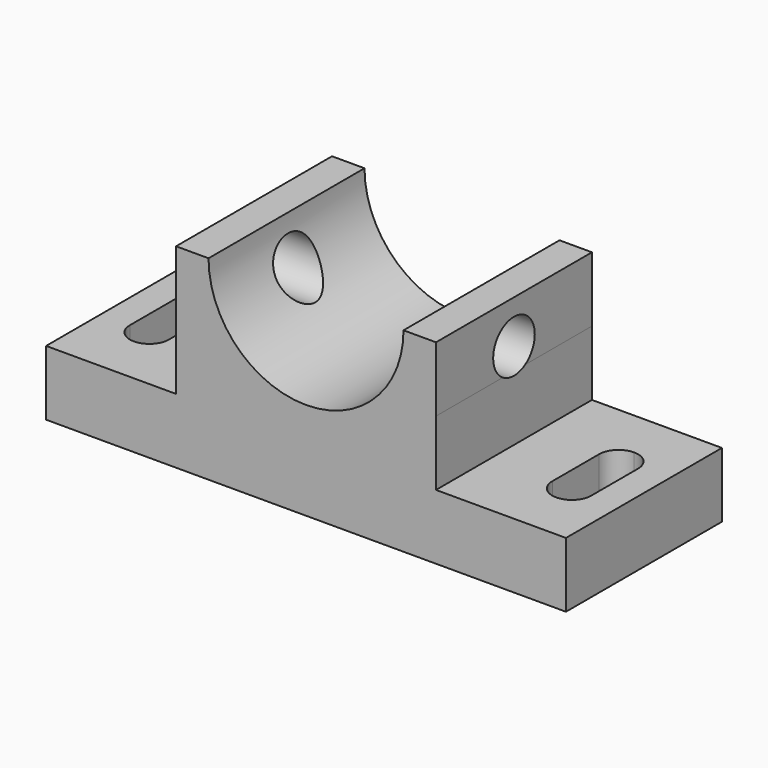
from build123d import *

# Parameters (mm, degrees)
F1_DEPTH = 60
F2_R     = 8
F3_DEPTH = 120.001001
F6_DEPTH = 20.001


with BuildPart() as f1:
    # F0 (on Front) → F1 (new body)
    with BuildSketch(Plane.XZ):
        with BuildLine():
            Line((-80, 10), (-80, -10))
            Line((-80, -10), (80, -10))
            Line((80, -10), (80, 10))
            Line((80, 10), (40, 10))
            Line((40, 10), (40.000001, 30))
            Line((40.000001, 30), (40.000001, 50))
            Line((40.000001, 50), (30.000001, 50))
            ThreePointArc((30.000001, 50), (1e-06, 20), (-29.999999, 50))
            Line((-29.999999, 50), (-39.999999, 50))
            Line((-39.999999, 50), (-40, 10))
            Line((-40, 10), (-80, 10))
        make_face()
    extrude(amount=F1_DEPTH)

    # F2 (on face) → F3 (cut, through all)
    with BuildSketch(Plane(origin=(-40, 0, 1e-06), x_dir=(0, -1, 0), z_dir=(-1, 0, 0))):
        with Locations((30, 36.73611)):
            Circle(F2_R)
    extrude(amount=-F3_DEPTH, mode=Mode.SUBTRACT)

    # F4 (on face) + F5 (on face) → F6 (cut, through all)
    with BuildSketch(Plane.XY.offset(10)):
        with BuildLine():
            Line((-71, -21), (-71, -39))
            ThreePointArc((-71, -39), (-69.242641, -43.242641), (-65, -45))
            ThreePointArc((-65, -45), (-60.757359, -43.242641), (-59, -39))
            Line((-59, -39), (-59, -21))
            ThreePointArc((-59, -21), (-60.757359, -16.757359), (-65, -15))
            ThreePointArc((-65, -15), (-69.242641, -16.757359), (-71, -21))
        make_face()
    with BuildSketch(Plane.XY.offset(10)):
        with BuildLine():
            Line((59, -21), (59, -39))
            ThreePointArc((59, -39), (60.757359, -43.242641), (65, -45))
            ThreePointArc((65, -45), (69.242641, -43.242641), (71, -39))
            Line((71, -39), (71, -21))
            ThreePointArc((71, -21), (69.242641, -16.757359), (65, -15))
            ThreePointArc((65, -15), (60.757359, -16.757359), (59, -21))
        make_face()
    extrude(amount=-F6_DEPTH, mode=Mode.SUBTRACT)


solid = f1.part
